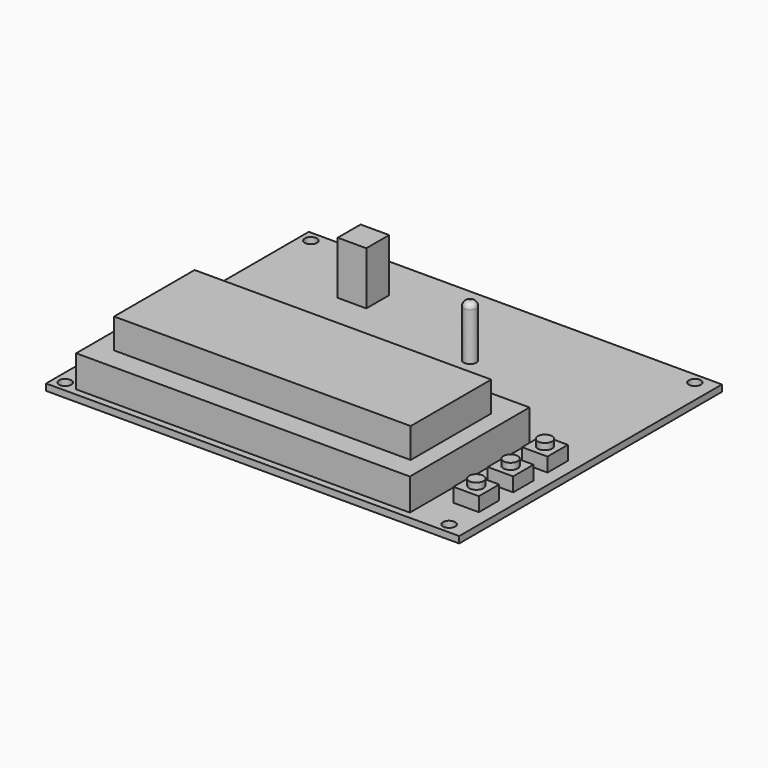
from build123d import *

# Parameters (mm, degrees)
F0_W      = 99.06
F0_H      = 78.74
F1_DEPTH  = 1.5748
F2_W      = 80.01
F2_H      = 35.8648
F3_DEPTH  = 7.62
F4_W      = 71.12
F4_H      = 24.13
F5_DEPTH  = 7.1628
F6_W      = 6.096
F6_H      = 6.096
F7_DEPTH  = 3.3782
F8_R      = 1.7145
F9_DEPTH  = 1.524
F10_R     = 1.524
F11_DEPTH = 12.7
F12_R     = 1.27
F13_W     = 6.858
F13_H     = 6.858
F14_DEPTH = 12.7
F15_R     = 1.4605
F16_DEPTH = 1.5748


with BuildPart() as f1:
    # F0 (on Top) → F1 (new body)
    with BuildSketch(Plane.XY):
        Rectangle(F0_W, F0_H)
    extrude(amount=F1_DEPTH)

    # F2 (on face) → F3 (join)
    with BuildSketch(Plane.XY.offset(1.5748)):
        with Locations((-3.6322, -19.7866)):
            Rectangle(F2_W, F2_H)
    extrude(amount=F3_DEPTH)

    # F4 (on face) → F5 (join)
    with BuildSketch(Plane.XY.offset(9.1948)):
        with Locations((-3.2512, -20.32)):
            Rectangle(F4_W, F4_H)
    extrude(amount=F5_DEPTH)

    # F6 (on face) → F7 (join)
    with BuildSketch(Plane.XY.offset(1.5748)):
        with Locations((43.307, -26.4668)):
            Rectangle(F6_W, F6_H)
        with Locations((43.307, -16.1798)):
            Rectangle(F6_W, F6_H)
        with Locations((43.307, -5.8928)):
            Rectangle(F6_W, F6_H)
    extrude(amount=F7_DEPTH)

    # F8 (on face) → F9 (join)
    with BuildSketch(Plane.XY.offset(4.953)):
        with Locations((43.307, -5.8928)):
            Circle(F8_R)
        with Locations((43.307, -16.1798)):
            Circle(F8_R)
        with Locations((43.307, -26.4668)):
            Circle(F8_R)
    extrude(amount=F9_DEPTH)

    # F10 (on face) → F11 (join)
    with BuildSketch(Plane.XY.offset(1.5748)):
        with Locations((6.604, 17.5514)):
            Circle(F10_R)
    extrude(amount=F11_DEPTH)

    # F12
    f12_edges = [f1.edges().sort_by_distance(p)[0] for p in [
        (5.08, 17.5514, 14.2748),
    ]]
    fillet(f12_edges, radius=F12_R)

    # F13 (on face) → F14 (join)
    with BuildSketch(Plane.XY.offset(1.5748)):
        with Locations((-25.146, 25.273)):
            Rectangle(F13_W, F13_H)
    extrude(amount=F14_DEPTH)

    # F15 (on face) → F16 (cut, through all)
    with BuildSketch(Plane(origin=(0, 0, 0), x_dir=(1, 0, 0), z_dir=(0, 0, -1))):
        with Locations((-46.99, 36.83)):
            Circle(F15_R)
        with Locations((45.085, 36.83)):
            Circle(F15_R)
        with Locations((45.085, -36.83)):
            Circle(F15_R)
        with Locations((-46.99, -36.83)):
            Circle(F15_R)
    extrude(amount=-F16_DEPTH, mode=Mode.SUBTRACT)


solid = f1.part
